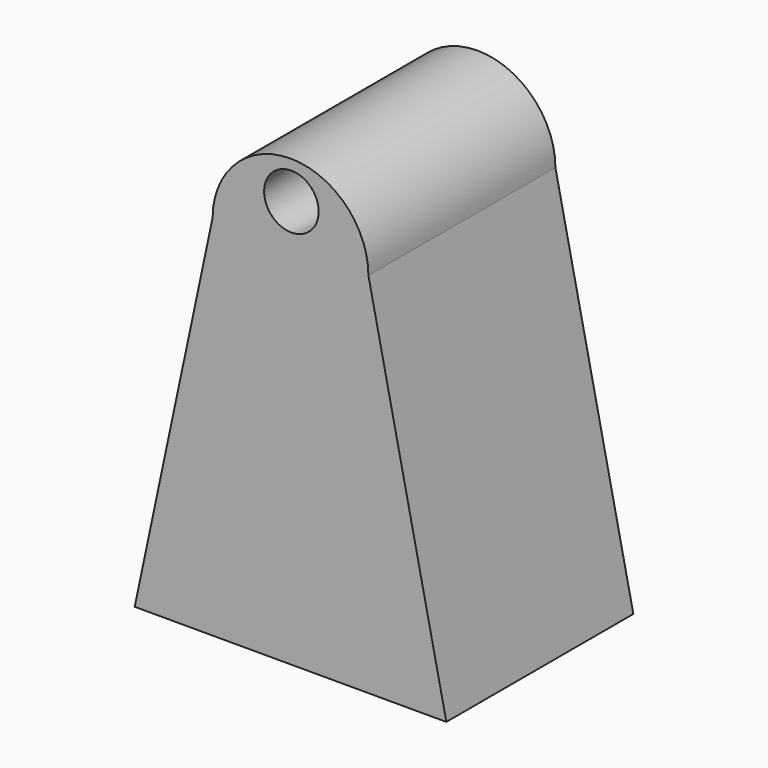
from build123d import *

# Parameters (mm, degrees)
F1_DEPTH = 30
F2_W     = 17.9273141921
F2_H     = 16.7198758554
F3_DEPTH = 47.8
F5_D     = 7


with BuildPart() as f1:
    # F0 (on Front) → F1 (new body)
    with BuildSketch(Plane.XZ):
        Polygon((10, 47.186203301), (0, 0), (40, 0), (30, 47.186203301), (20, 47.186203301), align=None)
        with BuildLine():
            ThreePointArc((30, 47.186203301), (20, 57.1520274516), (10, 47.186203301))
            Line((10, 47.186203301), (20, 47.186203301))
            Line((20, 47.186203301), (30, 47.186203301))
        make_face()
    extrude(amount=F1_DEPTH)

    # F2 (on Top) → F3 (cut, symmetric)
    with BuildSketch(Plane.XY):
        with Locations((20, -15.1315899557)):
            Rectangle(F2_W, F2_H)
    extrude(amount=F3_DEPTH, both=True, mode=Mode.SUBTRACT)

    # F5 (through all)
    with Locations(Plane(origin=(0, 0, 0), x_dir=(-1, 0, 0), z_dir=(0, 1, 0))):
        with Locations((-20.1143659651, 52.3227863014)):
            Hole(F5_D / 2)


solid = f1.part
